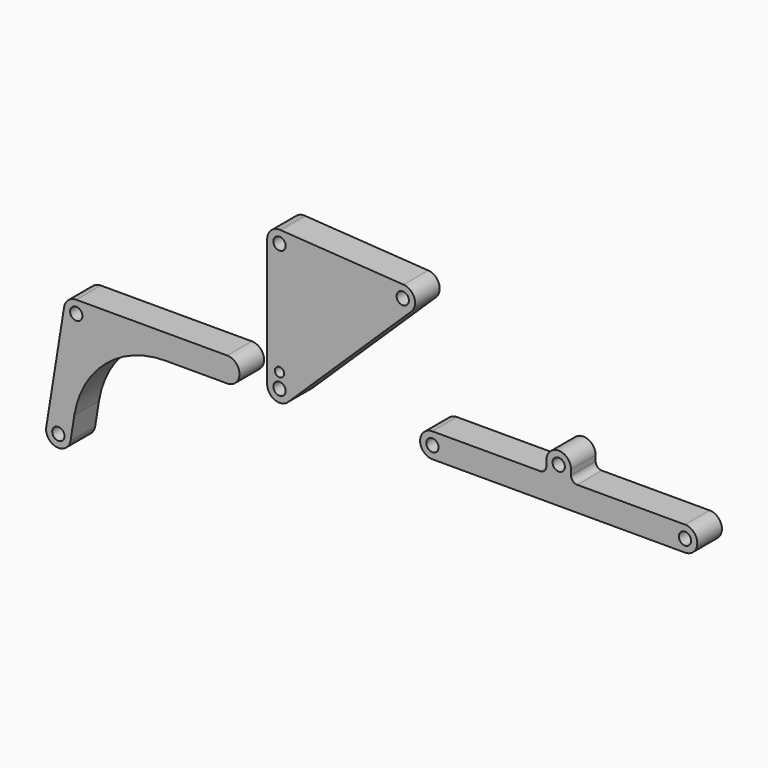
from build123d import *

# Parameters (mm, degrees)
F0_R     = 2
F0_R_2   = 1.495804
F1_DEPTH = 10
F2_R     = 2
F4_DEPTH = 10
F3_R     = 2
F5_DEPTH = 10


with BuildPart() as f1:
    # F0 (on Front) → F1 (new body)
    with BuildSketch(Plane.XZ):
        with BuildLine():
            Line((40.274405, 42.883806), (0.51749, 45.466384))
            Line((0.51749, 45.466384), (0, 45.5))
            ThreePointArc((0, 45.5), (-2.828427, 44.328427), (-4, 41.5))
            Line((-4, 41.5), (-4, 0))
            ThreePointArc((-4, 0), (-1.556988, -3.684534), (2.787895, -2.868387))
            Line((2.787895, -2.868387), (42.80301, 36.023832))
            ThreePointArc((42.80301, 36.023832), (43.768267, 40.275641), (40.274405, 42.883806))
        make_face()
        Circle(F0_R, mode=Mode.SUBTRACT)
        with Locations((0, 4.75859)):
            Circle(F0_R_2, mode=Mode.SUBTRACT)
        with Locations((0, 41.5)):
            Circle(F0_R, mode=Mode.SUBTRACT)
        with Locations((40.015115, 38.892219)):
            Circle(F0_R, mode=Mode.SUBTRACT)
    extrude(amount=F1_DEPTH)


with BuildPart() as f4:
    # F2 (on Front) → F4 (new body)
    with BuildSketch(Plane.XZ):
        with BuildLine():
            Line((-37.01062, -4), (-17, -4))
            ThreePointArc((-17, -4), (-13, 0), (-17, 4))
            Line((-17, 4), (-66, 4))
            ThreePointArc((-66, 4), (-68.595236, 3.043805), (-69.949696, 0.632375))
            Line((-69.949696, 0.632375), (-75.751737, -35.60609))
            ThreePointArc((-75.751737, -35.60609), (-72.434416, -40.188161), (-67.852344, -36.87084))
            Line((-67.852344, -36.87084), (-66.633343, -29.257187))
            ThreePointArc((-66.633343, -29.257187), (-56.47489, -11.171461), (-37.01062, -4))
        make_face()
        with Locations((-71.802041, -36.238465)):
            Circle(F2_R, mode=Mode.SUBTRACT)
        with Locations((-66, 0)):
            Circle(F2_R, mode=Mode.SUBTRACT)
    extrude(amount=F4_DEPTH)


with BuildPart() as f5:
    # F3 (on Front) → F5 (new body)
    with BuildSketch(Plane.XZ):
        with BuildLine():
            Line((84.654577, 4), (49.654577, 4))
            ThreePointArc((49.654577, 4), (45.654577, 0), (49.654577, -4))
            Line((49.654577, -4), (87.654577, -4))
            Line((87.654577, -4), (93.654577, -4))
            Line((93.654577, -4), (131.654577, -4))
            ThreePointArc((131.654577, -4), (135.654577, 0), (131.654577, 4))
            Line((131.654577, 4), (96.654577, 4))
            ThreePointArc((96.654577, 4), (95.240363, 4.585786), (94.654577, 6))
            Line((94.654577, 6), (94.654577, 7.8))
            ThreePointArc((94.654577, 7.8), (90.654577, 11.8), (86.654577, 7.8))
            Line((86.654577, 7.8), (86.654577, 6))
            ThreePointArc((86.654577, 6), (86.06879, 4.585786), (84.654577, 4))
        make_face()
        with Locations((49.654577, 0)):
            Circle(F3_R, mode=Mode.SUBTRACT)
        with Locations((131.654577, 0)):
            Circle(F3_R, mode=Mode.SUBTRACT)
        with Locations((90.654577, 7.8)):
            Circle(F3_R, mode=Mode.SUBTRACT)
    extrude(amount=F5_DEPTH)


solid = Compound([f1.part, f4.part, f5.part])
